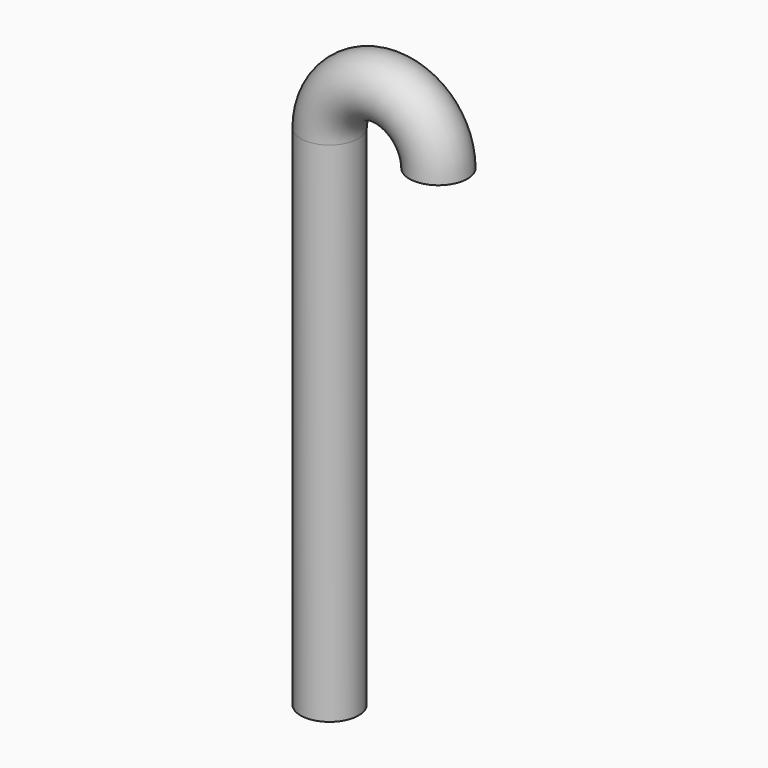
from build123d import *

# Parameters (mm, degrees)
F0_R     = 4
F0_R_2   = 3
F1_DEPTH = 70
F2_R     = 4
F2_R_2   = 3


with BuildPart() as f1:
    # F0 (on Top) → F1 (new body)
    with BuildSketch(Plane.XY):
        Circle(F0_R)
        Circle(F0_R_2, mode=Mode.SUBTRACT)
    extrude(amount=F1_DEPTH)

    # F4: sweep along a path in F3
    with BuildLine(Plane.XZ) as f4_path:
        ThreePointArc((15, 70), (7.5, 77.5), (0, 70))
    # F2 (on face) → F4 (sweep)
    with BuildSketch(Plane.XY.offset(70)):
        Circle(F2_R)
        Circle(F2_R_2, mode=Mode.SUBTRACT)
    sweep(path=f4_path.line)


solid = f1.part
